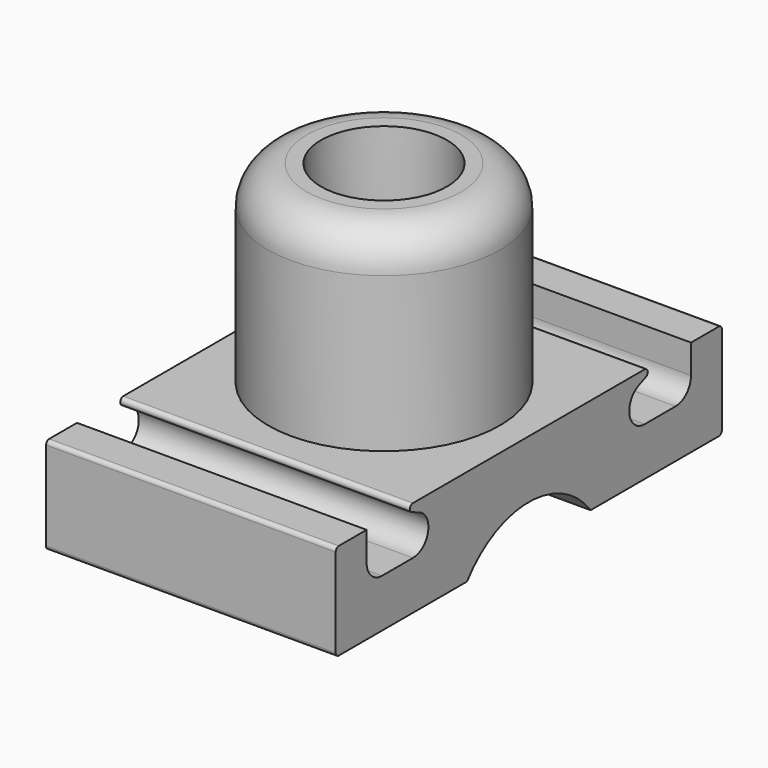
from build123d import *

# Parameters (mm, degrees)
F2_R      = 2
F3_W      = 25
F3_H      = 5
F4_DEPTH  = 7.5
F6_DEPTH  = 12.5
F7_R      = 0.2
F9_DEPTH  = 12.5
F10_R     = 1
F11_DEPTH = 5.001


with BuildPart() as f1:
    # F0 (on Right) → F1 (revolve)
    with BuildSketch(Plane.YZ):
        Polygon((-6, 0), (-3.31, 0), (-3.31, 5), (-3.26, 10), (-6, 10), align=None)
    revolve(axis=Axis((0, 0, 28.409811), (0, 0, 1)))

    # F2
    f2_edges = [f1.edges().sort_by_distance(p)[0] for p in [
        (0, 6, 10),
    ]]
    fillet(f2_edges, radius=F2_R)

    # F3 (on Right) → F4 (join, symmetric)
    with BuildSketch(Plane.YZ):
        with Locations((0, -2.5)):
            Rectangle(F3_W, F3_H)
    extrude(amount=F4_DEPTH, both=True)

    # F5 (on Right) → F6 (cut, symmetric)
    with BuildSketch(Plane.YZ):
        with BuildLine():
            Line((-8.5, 0), (-10.5, 0))
            Line((-10.5, 0), (-10.5, -1.5))
            ThreePointArc((-10.5, -1.5), (-10.207107, -2.207107), (-9.5, -2.5))
            Line((-9.5, -2.5), (-7.5, -2.5))
            ThreePointArc((-7.5, -2.5), (-6.519419, -1.696116), (-7.115385, -0.576923))
            Line((-7.115385, -0.576923), (-8.5, 0))
        make_face()
        with BuildLine():
            Line((10.5, 0), (8.5, 0))
            Line((8.5, 0), (7.115385, -0.576923))
            ThreePointArc((7.115385, -0.576923), (6.519419, -1.696116), (7.5, -2.5))
            Line((7.5, -2.5), (9.5, -2.5))
            ThreePointArc((9.5, -2.5), (10.207107, -2.207107), (10.5, -1.5))
            Line((10.5, -1.5), (10.5, 0))
        make_face()
    extrude(amount=F6_DEPTH, both=True, mode=Mode.SUBTRACT)

    # F7
    f7_edges = [f1.edges().sort_by_distance(p)[0] for p in [
        (0, -8.5, 0),
        (0, 8.5, 0),
        (0, -12.5, 0),
        (0, 12.5, 0),
        (0, -12.5, -5),
        (0, 12.5, -5),
    ]]
    fillet(f7_edges, radius=F7_R)

    # F8 (on Right) → F9 (cut, symmetric)
    with BuildSketch(Plane.YZ):
        with BuildLine():
            Line((-4, -5), (4, -5))
            ThreePointArc((4, -5), (0, -3), (-4, -5))
        make_face()
    extrude(amount=F9_DEPTH, both=True, mode=Mode.SUBTRACT)

    # F10 (on face) → F11 (cut, through all)
    with BuildSketch(Plane.XY):
        Circle(F10_R)
    extrude(amount=-F11_DEPTH, mode=Mode.SUBTRACT)


solid = f1.part
